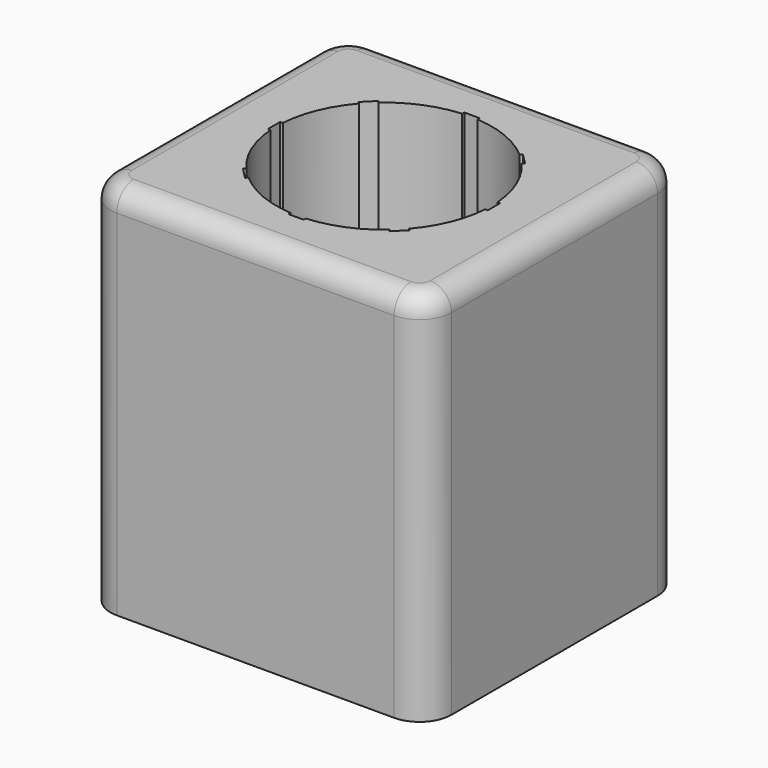
from build123d import *

# Parameters (mm, degrees)
SKETCH_R             = 10.15
PAD_DEPTH            = 35.4
SKETCH001_W          = 1.455354
SKETCH001_H          = 0.628309
POCKET_DEPTH         = 148.624187
POLARPATTERN_COUNT   = 8
FILLET_R             = 2
SKETCH002_R          = 7
POCKET001_DEPTH      = 21.426335
POCKET001_DEPTH_BACK = 22.734483
FILLET001_R          = 1


with BuildPart() as part:
    # Sketch → Pad (new body)
    with BuildSketch(Plane.XY):
        with BuildLine():
            Line((-16.075, 12.15), (-16.075, -12.15))
            ThreePointArc((-16.075, -12.15), (-15.19632, -14.27132), (-13.075, -15.15))
            Line((-13.075, -15.15), (13.075, -15.15))
            ThreePointArc((13.075, -15.15), (15.19632, -14.27132), (16.075, -12.15))
            Line((16.075, -12.15), (16.075, 12.15))
            ThreePointArc((16.075, 12.15), (15.19632, 14.27132), (13.075, 15.15))
            Line((13.075, 15.15), (-13.075, 15.15))
            ThreePointArc((-13.075, 15.15), (-15.19632, 14.27132), (-16.075, 12.15))
        make_face()
        Circle(SKETCH_R, mode=Mode.SUBTRACT)
    extrude(amount=PAD_DEPTH)

    # Sketch001 (on Face11 of Pad) → Pocket (cut, through all)
    with BuildSketch(Plane.XY.offset(35.4)):
        with Locations((0, 10.060702)):
            Rectangle(SKETCH001_W, SKETCH001_H)
    pocket = extrude(amount=-POCKET_DEPTH, mode=Mode.SUBTRACT)

    # PolarPattern: Pocket ×8 about axis
    polarpattern_axis = Axis((0, 0, 35.4), (0, 0, 1))
    for i in range(1, POLARPATTERN_COUNT):
        add(pocket.rotate(polarpattern_axis, i * 360 / POLARPATTERN_COUNT), mode=Mode.SUBTRACT)

    # Fillet
    fillet_edges = [part.edges().sort_by_distance(p)[0] for p in [
        (-16.075, 0, 35.4),
    ]]
    fillet(fillet_edges, radius=FILLET_R)

    # Sketch002 (on DatumPlane) → Pocket001 (cut, two sides)
    with BuildSketch(Plane(origin=(-14.984859, 14.059859, 16.7), x_dir=(-0.707107, 0.707107, 0), z_dir=(0.707107, 0.707107, 0))) as pocket001_sk:
        with Locations((2.048201, 0)):
            Circle(SKETCH002_R)
    extrude(amount=-POCKET001_DEPTH, mode=Mode.SUBTRACT)
    extrude(pocket001_sk.sketch, amount=POCKET001_DEPTH_BACK, mode=Mode.SUBTRACT)

    # Fillet001
    fillet001_edges = [part.edges().sort_by_distance(p)[0] for p in [
        (-6.891817, 15.15, 16.7),
    ]]
    fillet(fillet001_edges, radius=FILLET001_R)


solid = part.part
